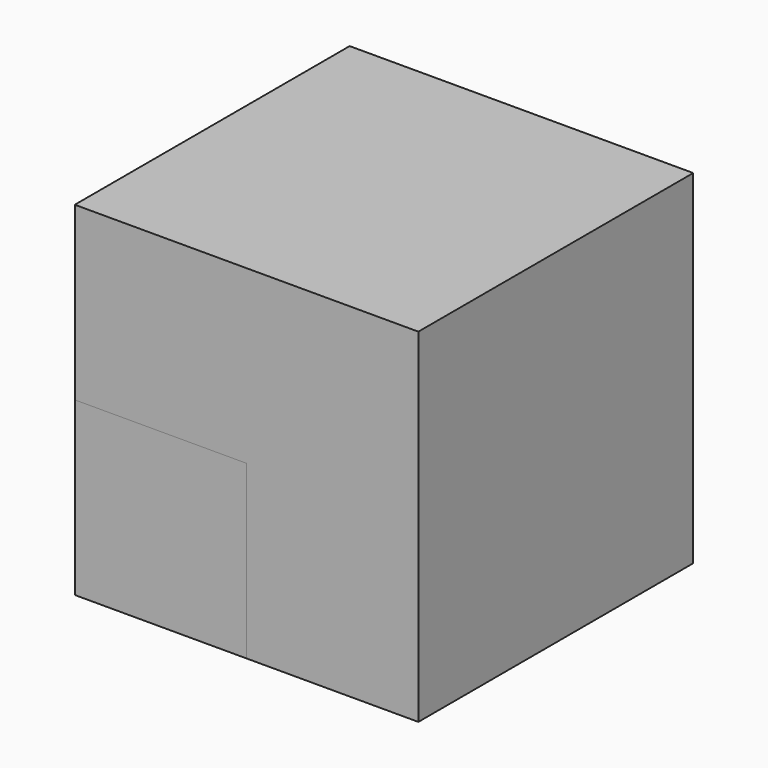
from build123d import *

# Parameters (mm, degrees)
BOX_W        = 10
BOX_H        = 10
BOX_DEPTH    = 10
BOX001_W     = 5
BOX001_H     = 5
BOX001_DEPTH = 5


with BuildPart() as obj1:
    # Box → Box (new body)
    with BuildSketch(Plane.XY):
        with Locations((5, 5)):
            Rectangle(BOX_W, BOX_H)
    extrude(amount=BOX_DEPTH)


with BuildPart() as cub_int:
    # Box001 → Box001 (new body)
    with BuildSketch(Plane.XY):
        with Locations((2.5, 2.5)):
            Rectangle(BOX001_W, BOX001_H)
    extrude(amount=BOX001_DEPTH)


solid = Compound([obj1.part, cub_int.part])
